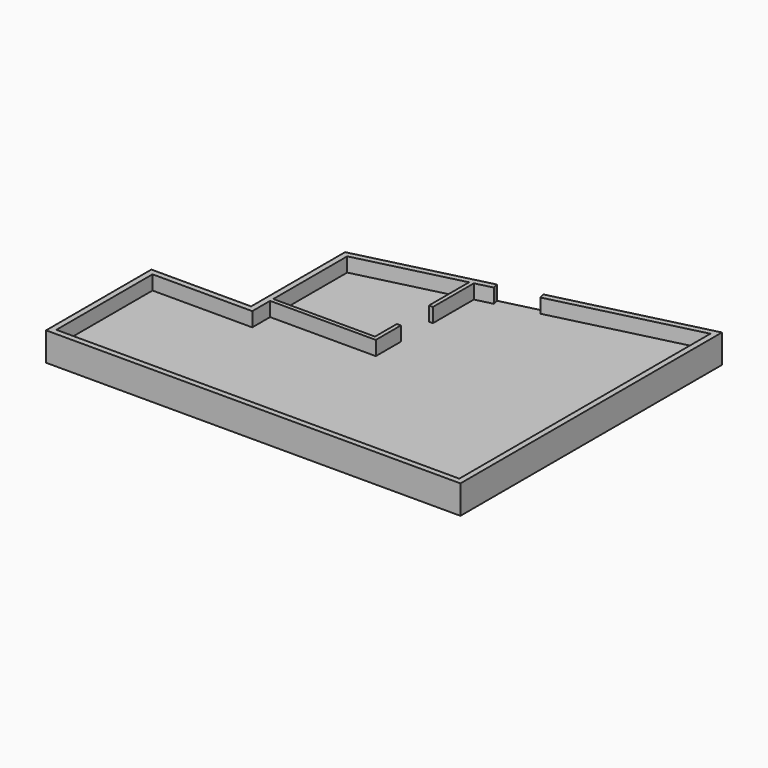
from build123d import *

# Parameters (mm, degrees)
F0_W     = 7
F0_H     = 70
F1_DEPTH = 25
F2_DEPTH = 50


with BuildPart() as f1:
    # F0 (on Top) → F1 (new body)
    with BuildSketch(Plane.XY):
        Polygon((0, 210.3), (0, 0), (705, 0), (705, 549.134831), (456.615419, 487.736396), (388.660768, 470.938617), (359.5, 463.730337), (359.5, 451.623291), (359.5, 374.081202), (359.5, 304.081202), (359.5, 249.269064), (174.5, 249.269064), (174.5, 210.3), align=None)
        Polygon((174.5, 418), (174.5, 256.269064), (352.5, 256.269064), (352.5, 304.081202), (352.5, 374.081202), (352.5, 462), align=None)
        Polygon((388.660768, 470.938617), (456.615419, 487.736396), (454.215736, 497.444203), (386.261085, 480.646424), align=None)
        with Locations((356, 339.081202)):
            Rectangle(F0_W, F0_H)
    extrude(amount=F1_DEPTH)

    # F0 (on Top) → F2 (join)
    with BuildSketch(Plane.XY):
        Polygon((359.5, 451.623291), (359.5, 463.730337), (352.5, 462), (352.5, 374.081202), (359.5, 374.081202), align=None)
        Polygon((174.5, 256.269064), (174.5, 249.269064), (359.5, 249.269064), (359.5, 304.081202), (352.5, 304.081202), (352.5, 256.269064), align=None)
        Polygon((705, 0), (0, 0), (0, 210.3), (174.5, 210.3), (174.5, 249.269064), (174.5, 256.269064), (174.5, 418), (352.5, 462), (359.5, 463.730337), (388.660768, 470.938617), (386.261085, 480.646424), (164.5, 425.829077), (164.5, 256.269064), (164.5, 220.3), (-10, 220.3), (-10, -10), (715, -10), (715, 561.907729), (454.215736, 497.444203), (456.615419, 487.736396), (705, 549.134831), align=None)
    extrude(amount=F2_DEPTH)


solid = f1.part
